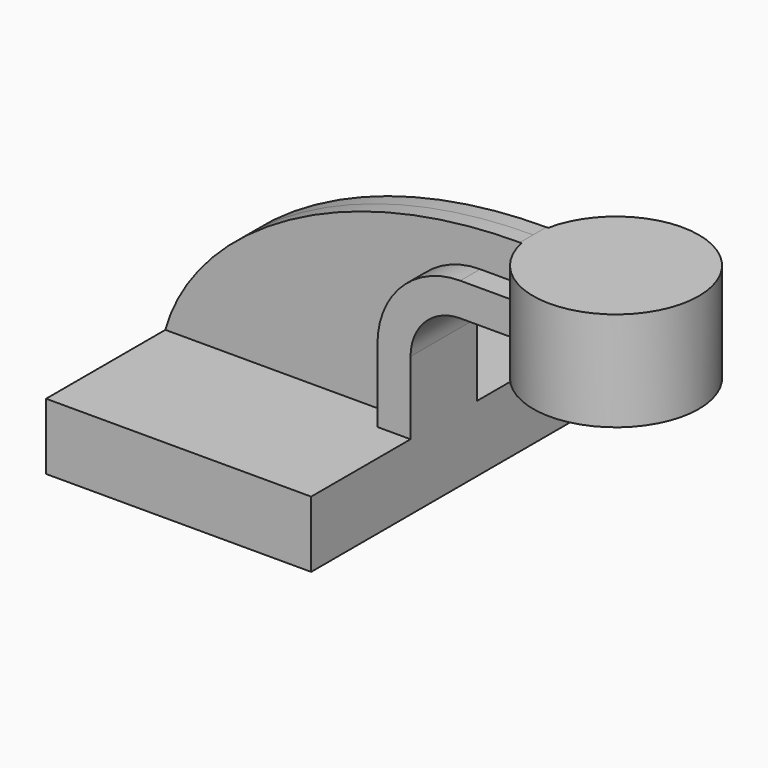
from build123d import *

# Parameters (mm, degrees)
F1_DEPTH = 50
F2_DEPTH = 12.5
F3_DEPTH = 5
F5_DEPTH = 5


with BuildPart() as f1:
    # F0 (on Front) → F1 (new body, symmetric)
    with BuildSketch(Plane.XZ):
        Polygon((-40, -10), (40, -10), (40, 10), (30, 10), (-40, 10), align=None)
    extrude(amount=F1_DEPTH, both=True)

    # F0 (on Front) → F2 (join, symmetric)
    with BuildSketch(Plane.XZ):
        with BuildLine():
            Line((30, 10), (40, 10))
            Line((40, 10), (40, 32))
            ThreePointArc((40, 32), (44.3933982822, 42.6066017178), (55, 47))
            Line((55, 47), (67, 47))
            Line((67, 47), (67, 57))
            Line((67, 57), (55, 57))
            ThreePointArc((55, 57), (37.3223304703, 49.6776695297), (30, 32))
            Line((30, 32), (30, 10))
        make_face()
    extrude(amount=F2_DEPTH, both=True)

    # F0 (on Front) → F3 (join, symmetric)
    with BuildSketch(Plane.XZ):
        with BuildLine():
            add(Edge.make_bspline(
                [(-40, 10), (-31.567607969, 40.394651228), (11, 68.0161871854), (67, 68)],
                knots=[0, 0, 0, 0, 121.7086685491, 121.7086685491, 121.7086685491, 121.7086685491], degree=3))
            Line((-40, 10), (30, 10))
            Line((30, 10), (30, 32))
            ThreePointArc((30, 32), (37.3223304703, 49.6776695297), (55, 57))
            Line((55, 57), (67, 57))
            Line((67, 57), (67, 68))
        make_face()
    extrude(amount=F3_DEPTH, both=True)

    # F0 (on Front) → F4 (revolve)
    with BuildSketch(Plane.XZ):
        Polygon((117, 68), (92, 68), (92, 57), (92, 47), (92, 38), (117, 38), align=None)
    revolve(axis=Axis((92, 0, 52), (0, 0, -1)))

    # F5 (add): faces of the model
    f5_faces = [f1.faces().sort_by_distance(p)[0] for p in [
        (67, 5.1041666667, 55.2083333333),
        (67, -5.1041666667, 55.2083333333),
    ]]
    extrude(f5_faces, amount=F5_DEPTH)


solid = f1.part
